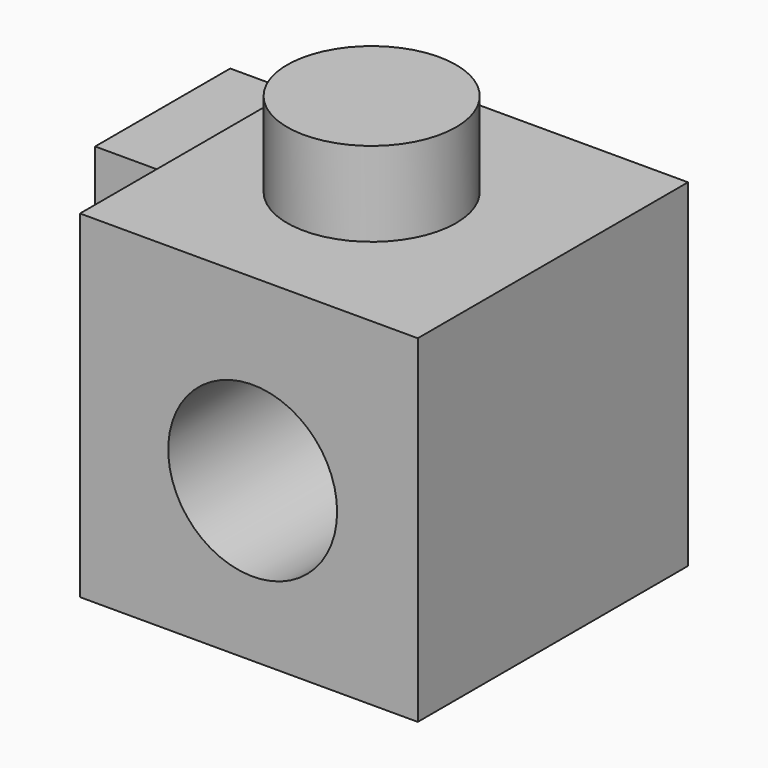
from build123d import *

# Parameters (mm, degrees)
F0_W     = 50.8
F0_H     = 50.8
F1_DEPTH = 50.8
F2_R     = 12.7
F3_DEPTH = 50.8
F4_W     = 25.4
F4_H     = 25.4
F5_DEPTH = 12.7
F6_R     = 12.7
F7_DEPTH = 12.7


with BuildPart() as f1:
    # F0 (on Front) → F1 (new body)
    with BuildSketch(Plane.XZ):
        with Locations((-18.90148, 12.796993)):
            Rectangle(F0_W, F0_H)
    extrude(amount=F1_DEPTH)

    # F2 (on face) → F3 (cut)
    with BuildSketch(Plane.XZ.offset(50.8)):
        with Locations((-18.331647, 11.266325)):
            Circle(F2_R)
    extrude(amount=-F3_DEPTH, mode=Mode.SUBTRACT)

    # F4 (on face) → F5 (join)
    with BuildSketch(Plane(origin=(-44.30148, 0, 0), x_dir=(0, -1, 0), z_dir=(-1, 0, 0))):
        with Locations((19.383412, 22.629642)):
            Rectangle(F4_W, F4_H)
    extrude(amount=F5_DEPTH)

    # F6 (on face) → F7 (join)
    with BuildSketch(Plane.XY.offset(38.196993)):
        with Locations((-20.979064, -25.123227)):
            Circle(F6_R)
    extrude(amount=F7_DEPTH)


solid = f1.part
